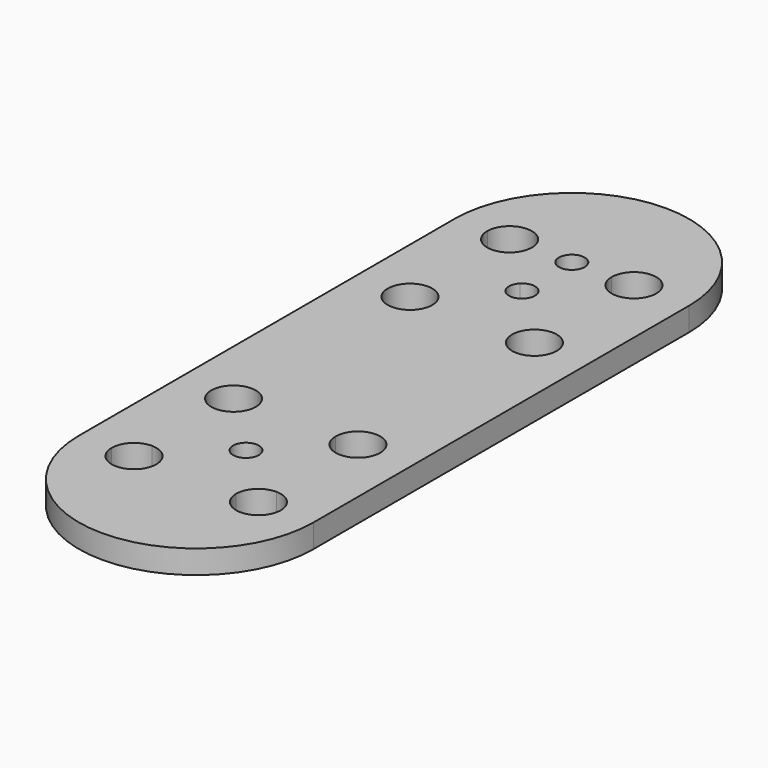
from build123d import *

# Parameters (mm, degrees)
F0_R     = 2.413
F1_DEPTH = 2.54
F2_R     = 1.397
F3_DEPTH = 2.541


with BuildPart() as f1:
    # F0 (on Top) → F1 (new body)
    with BuildSketch(Plane.XY):
        with BuildLine():
            Line((12.7, -25.4), (12.7, 0))
            Line((12.7, 0), (9.1439976908, 0))
            ThreePointArc((9.1439976908, 0), (9.1439994227, -0.0016691354), (9.144, -0.0033382716))
            ThreePointArc((9.144, -0.0033382716), (6.7293308638, -2.4163376943), (4.3180023092, 0))
            Line((4.3180023092, 0), (-4.3180023092, 0))
            ThreePointArc((-4.3180023092, 0), (-4.3180005773, -0.0016691354), (-4.318, -0.0033382716))
            ThreePointArc((-4.318, -0.0033382716), (-6.7326691362, -2.4163376943), (-9.1439976908, 0))
            Line((-9.1439976908, 0), (-12.7, 0))
            Line((-12.7, 0), (-12.7, -25.4))
            Line((-12.7, -25.4), (12.7, -25.4))
        make_face()
        with Locations((-6.731, -13.4653382716)):
            Circle(F0_R, mode=Mode.SUBTRACT)
        with Locations((6.731, -13.4653382716)):
            Circle(F0_R, mode=Mode.SUBTRACT)
        with BuildLine():
            Line((9.1439976908, 0), (12.7, 0))
            ThreePointArc((12.7, 0), (0, 12.7), (-12.7, 0))
            Line((-12.7, 0), (-9.1439976908, 0))
            ThreePointArc((-9.1439976908, 0), (-6.731, 2.4096617284), (-4.3180023092, 0))
            Line((-4.3180023092, 0), (4.3180023092, 0))
            ThreePointArc((4.3180023092, 0), (6.731, 2.4096617284), (9.1439976908, 0))
        make_face()
        with BuildLine():
            Line((12.7, -50.8), (12.7, -25.4))
            Line((12.7, -25.4), (-12.7, -25.4))
            Line((-12.7, -25.4), (-12.7, -50.8))
            Line((-12.7, -50.8), (-9.1439976908, -50.8))
            ThreePointArc((-9.1439976908, -50.8), (-8.4384285123, -49.0915937311), (-6.731, -48.3836617284))
            Line((-6.731, -48.3836617284), (-6.731, -39.7476617284))
            ThreePointArc((-6.731, -39.7476617284), (-8.437248663, -35.6284130654), (-4.318, -37.3346617284))
            Line((-4.318, -37.3346617284), (4.318, -37.3346617284))
            ThreePointArc((4.318, -37.3346617284), (6.731, -34.9216617284), (9.144, -37.3346617284))
            ThreePointArc((9.144, -37.3346617284), (8.437248663, -39.0409103914), (6.731, -39.7476617284))
            Line((6.731, -39.7476617284), (6.731, -48.3836617284))
            ThreePointArc((6.731, -48.3836617284), (8.437248663, -49.0904130654), (9.144, -50.7966617284))
            ThreePointArc((9.144, -50.7966617284), (9.1439994227, -50.7983308646), (9.1439976908, -50.8))
            Line((9.1439976908, -50.8), (12.7, -50.8))
        make_face()
        with BuildLine():
            ThreePointArc((-12.7, -50.8), (0, -63.5), (12.7, -50.8))
            Line((12.7, -50.8), (9.1439976908, -50.8))
            ThreePointArc((9.1439976908, -50.8), (6.731, -53.2096617284), (4.3180023092, -50.8))
            ThreePointArc((4.3180023092, -50.8), (4.3180005773, -50.7983308646), (4.318, -50.7966617284))
            Line((4.318, -50.7966617284), (-4.318, -50.7966617284))
            ThreePointArc((-4.318, -50.7966617284), (-4.3180005773, -50.7983308646), (-4.3180023092, -50.8))
            ThreePointArc((-4.3180023092, -50.8), (-6.731, -53.2096617284), (-9.1439976908, -50.8))
            Line((-9.1439976908, -50.8), (-12.7, -50.8))
        make_face()
        with BuildLine():
            Line((-6.731, -39.7476617284), (-6.731, -48.3836617284))
            ThreePointArc((-6.731, -48.3836617284), (-5.024751337, -49.0904130654), (-4.318, -50.7966617284))
            Line((-4.318, -50.7966617284), (4.318, -50.7966617284))
            ThreePointArc((4.318, -50.7966617284), (5.024751337, -49.0904130654), (6.731, -48.3836617284))
            Line((6.731, -48.3836617284), (6.731, -39.7476617284))
            ThreePointArc((6.731, -39.7476617284), (5.024751337, -39.0409103914), (4.318, -37.3346617284))
            Line((4.318, -37.3346617284), (-4.318, -37.3346617284))
            ThreePointArc((-4.318, -37.3346617284), (-5.024751337, -39.0409103914), (-6.731, -39.7476617284))
        make_face()
    extrude(amount=F1_DEPTH)

    # F2 (on face) → F3 (cut, through all)
    with BuildSketch(Plane.XY.offset(2.54)):
        Circle(F2_R)
        with BuildLine():
            ThreePointArc((0.9878281733, -5.7465100983), (0, -5.3373382716), (-0.9878281733, -5.7465100983))
            Line((-0.9878281733, -5.7465100983), (0, -6.7343382716))
            Line((0, -6.7343382716), (0.9878281733, -5.7465100983))
        make_face()
        with BuildLine():
            Line((0, -6.7343382716), (-0.9878281733, -5.7465100983))
            ThreePointArc((-0.9878281733, -5.7465100983), (-1.397, -6.7343382716), (-0.9878281733, -7.7221664449))
            Line((-0.9878281733, -7.7221664449), (0, -6.7343382716))
        make_face()
        with BuildLine():
            Line((0.9878281733, -5.7465100983), (0, -6.7343382716))
            Line((0, -6.7343382716), (0.9878281733, -7.7221664449))
            ThreePointArc((0.9878281733, -7.7221664449), (1.2906597069, -7.2689470266), (1.397, -6.7343382716))
            ThreePointArc((1.397, -6.7343382716), (1.2906597069, -6.1997295166), (0.9878281733, -5.7465100983))
        make_face()
        with BuildLine():
            Line((0.9878281733, -7.7221664449), (0, -6.7343382716))
            Line((0, -6.7343382716), (-0.9878281733, -7.7221664449))
            ThreePointArc((-0.9878281733, -7.7221664449), (0, -8.1313382716), (0.9878281733, -7.7221664449))
        make_face()
        with Locations((0, -44.0656617284)):
            Circle(F2_R)
    extrude(amount=-F3_DEPTH, mode=Mode.SUBTRACT)


solid = f1.part
